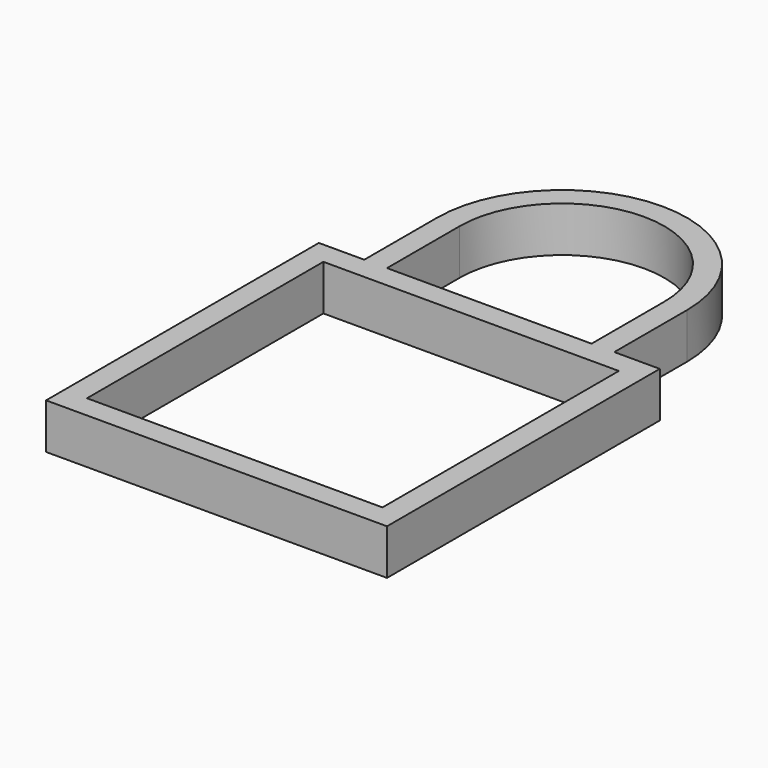
from build123d import *

# Parameters (mm, degrees)
F0_W     = 10
F0_H     = 10
F1_DEPTH = 20


with BuildPart() as f1:
    # F0 (on Top) → F1 (new body)
    with BuildSketch(Plane.XY):
        Polygon((75, -75), (75, 75), (55, 75), (55, 65), (65, 65), (65, -65), (-65, -65), (-65, 65), (-55, 65), (-55, 75), (-75, 75), (-75, -75), align=None)
        with Locations((-50, 70)):
            Rectangle(F0_W, F0_H)
        with BuildLine():
            ThreePointArc((-20.6155281281, 75), (0, 70), (20.6155281281, 75))
            Line((20.6155281281, 75), (-20.6155281281, 75))
        make_face()
        with BuildLine():
            ThreePointArc((22.9128784748, 65), (30.7403821918, 69.3926661303), (37.7491721764, 75))
            Line((37.7491721764, 75), (20.6155281281, 75))
            ThreePointArc((20.6155281281, 75), (0, 70), (-20.6155281281, 75))
            Line((-20.6155281281, 75), (-37.7491721764, 75))
            ThreePointArc((-37.7491721764, 75), (-30.7403821918, 69.3926661303), (-22.9128784748, 65))
            Line((-22.9128784748, 65), (22.9128784748, 65))
        make_face()
        with BuildLine():
            Line((-45, 65), (-22.9128784748, 65))
            ThreePointArc((-22.9128784748, 65), (-30.7403821918, 69.3926661303), (-37.7491721764, 75))
            Line((-37.7491721764, 75), (-45, 75))
            Line((-45, 75), (-45, 65))
        make_face()
        with BuildLine():
            ThreePointArc((22.9128784748, 65), (30.7403821918, 69.3926661303), (37.7491721764, 75))
            Line((37.7491721764, 75), (20.6155281281, 75))
            ThreePointArc((20.6155281281, 75), (0, 70), (-20.6155281281, 75))
            Line((-20.6155281281, 75), (-37.7491721764, 75))
            ThreePointArc((-37.7491721764, 75), (-30.7403821918, 69.3926661303), (-22.9128784748, 65))
            Line((-22.9128784748, 65), (22.9128784748, 65))
        make_face()
        with BuildLine():
            Line((45, 65), (45, 75))
            Line((45, 75), (37.7491721764, 75))
            ThreePointArc((37.7491721764, 75), (30.7403821918, 69.3926661303), (22.9128784748, 65))
            Line((22.9128784748, 65), (45, 65))
        make_face()
        with Locations((50, 70)):
            Rectangle(F0_W, F0_H)
        with BuildLine():
            Line((45, 75), (55, 75))
            Line((55, 75), (55, 115))
            ThreePointArc((55, 115), (52.4404424085, 98.4168760482), (45, 83.3772233983))
            Line((45, 83.3772233983), (45, 75))
        make_face()
        with BuildLine():
            ThreePointArc((45, 83.3772233983), (52.4404424085, 98.4168760482), (55, 115))
            Line((55, 115), (45, 115))
            Line((45, 115), (45, 83.3772233983))
        make_face()
        with BuildLine():
            ThreePointArc((-45, 83.3772233983), (-52.4404424085, 98.4168760482), (-55, 115))
            Line((-55, 115), (-55, 75))
            Line((-55, 75), (-45, 75))
            Line((-45, 75), (-45, 83.3772233983))
        make_face()
        with BuildLine():
            Line((-45, 115), (-55, 115))
            ThreePointArc((-55, 115), (-52.4404424085, 98.4168760482), (-45, 83.3772233983))
            Line((-45, 83.3772233983), (-45, 115))
        make_face()
        with BuildLine():
            Line((45, 115), (55, 115))
            ThreePointArc((55, 115), (0, 170), (-55, 115))
            Line((-55, 115), (-45, 115))
            ThreePointArc((-45, 115), (0, 160), (45, 115))
        make_face()
    extrude(amount=F1_DEPTH)


solid = f1.part
